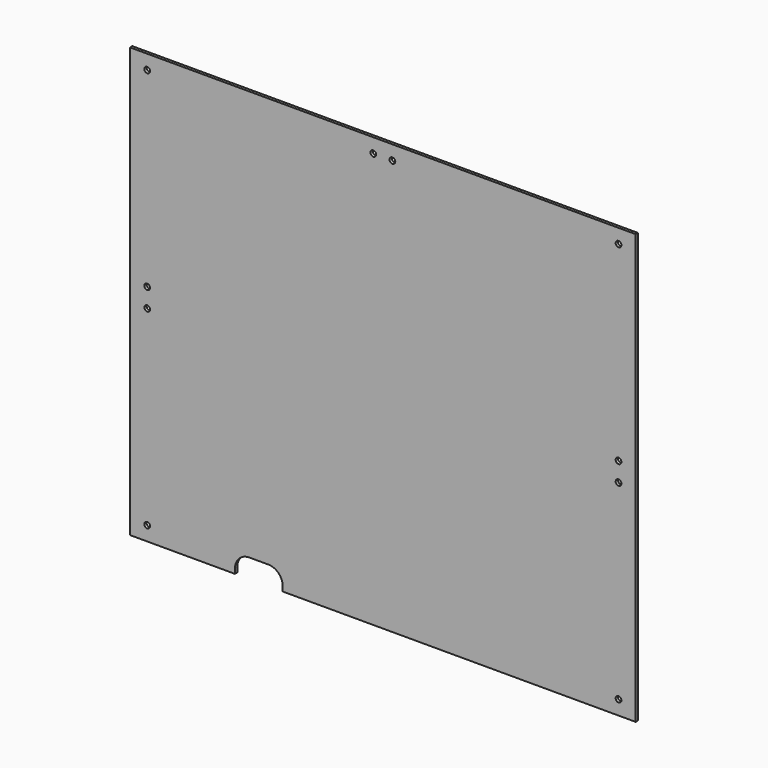
from build123d import *

# Parameters (mm, degrees)
F0_R     = 3
F1_DEPTH = 3


with BuildPart() as f1:
    # F0 (on Front) → F1 (new body)
    with BuildSketch(Plane.XZ):
        with BuildLine():
            Line((0, 450), (0, 0))
            Line((0, 0), (110, 0))
            Line((110, 0), (110, 5))
            ThreePointArc((110, 5), (114.393398, 15.606602), (125, 20))
            Line((125, 20), (145, 20))
            ThreePointArc((145, 20), (155.606602, 15.606602), (160, 5))
            Line((160, 5), (160, 0))
            Line((160, 0), (530, 0))
            Line((530, 0), (530, 450))
            Line((530, 450), (0, 450))
        make_face()
        with Locations((18, 15)):
            Circle(F0_R, mode=Mode.SUBTRACT)
        with Locations((18, 215)):
            Circle(F0_R, mode=Mode.SUBTRACT)
        with Locations((512, 15)):
            Circle(F0_R, mode=Mode.SUBTRACT)
        with Locations((512, 215)):
            Circle(F0_R, mode=Mode.SUBTRACT)
        with Locations((18, 235)):
            Circle(F0_R, mode=Mode.SUBTRACT)
        with Locations((18, 435)):
            Circle(F0_R, mode=Mode.SUBTRACT)
        with Locations((255, 435)):
            Circle(F0_R, mode=Mode.SUBTRACT)
        with Locations((512, 235)):
            Circle(F0_R, mode=Mode.SUBTRACT)
        with Locations((275, 435)):
            Circle(F0_R, mode=Mode.SUBTRACT)
        with Locations((512, 435)):
            Circle(F0_R, mode=Mode.SUBTRACT)
    extrude(amount=F1_DEPTH)


solid = f1.part
